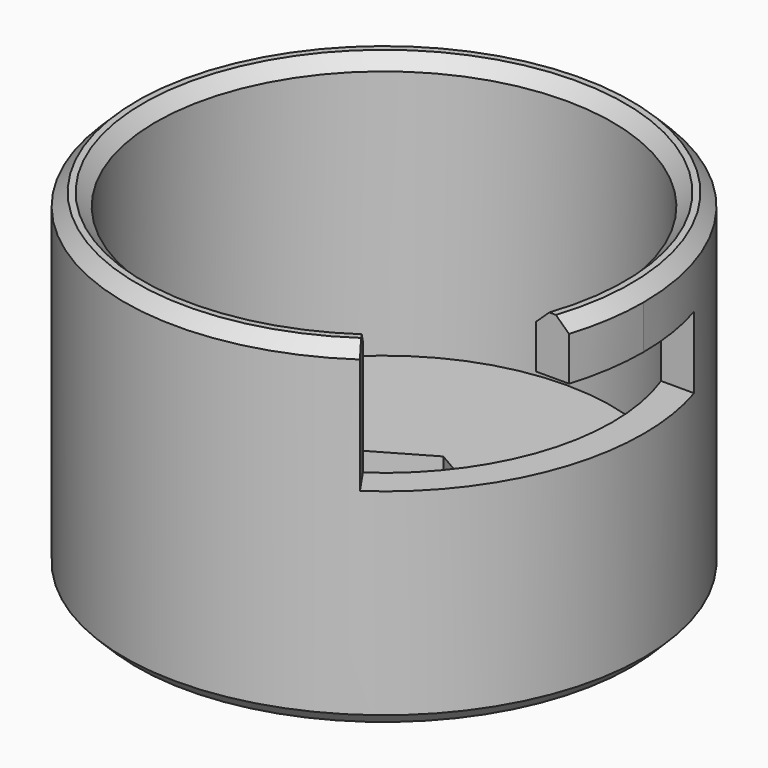
from build123d import *

# Parameters (mm, degrees)
F0_R      = 20.75
F1_DEPTH  = 6
F3_DEPTH  = 4.75
F4_R      = 3
F5_DEPTH  = 1.25
F6_R      = 20.75
F6_R_2    = 18.25
F7_DEPTH  = 21
F9_W      = 12.5
F9_H      = 5.75
F10_DEPTH = 4.6035718005
F12_DEPTH = 10.25
F13_SIZE  = 1


with BuildPart() as f1:
    # F0 (on Top) → F1 (new body)
    with BuildSketch(Plane.XY):
        Circle(F0_R)
    extrude(amount=F1_DEPTH)

    # F2 (on face) → F3 (cut)
    with BuildSketch(Plane.XY.offset(6)):
        Polygon((5.125, -2.9589201296), (5.125, 2.9589201296), (0, 5.9178402592), (-5.125, 2.9589201296), (-5.125, -2.9589201296), (0, -5.9178402592), align=None)
    extrude(amount=-F3_DEPTH, mode=Mode.SUBTRACT)

    # F4 (on face) → F5 (cut, through all)
    with BuildSketch(Plane.XY.offset(1.25)):
        Circle(F4_R)
    extrude(amount=-F5_DEPTH, mode=Mode.SUBTRACT)

    # F6 (on face) → F7 (join)
    with BuildSketch(Plane.XY.offset(6)):
        Circle(F6_R)
        Circle(F6_R_2, mode=Mode.SUBTRACT)
    extrude(amount=F7_DEPTH)

    # F9 (on offset) → F10 (cut, up to face)
    with BuildSketch(Plane.YZ.offset(20.75)):
        with Locations((0, 19.625)):
            Rectangle(F9_W, F9_H)
    extrude(amount=-F10_DEPTH, mode=Mode.SUBTRACT)

    # F11 (on face) → F12 (cut, through all)
    with BuildSketch(Plane.XY.offset(27)):
        with BuildLine():
            Line((10.3375358146, -15.039875441), (11.7536366111, -17.1001323508))
            ThreePointArc((11.7536366111, -17.1001323508), (16.6770552799, -12.3465917237), (19.7863589374, -6.25))
            Line((19.7863589374, -6.25), (17.1464281995, -6.25))
            ThreePointArc((17.1464281995, -6.25), (14.4276660292, -11.1760884459), (10.3375358146, -15.039875441))
        make_face()
    extrude(amount=-F12_DEPTH, mode=Mode.SUBTRACT)

    # F13
    f13_edges = [f1.edges().sort_by_distance(p)[0] for p in [
        (-18.363693, 9.661122, 27),
        (-16.1512, 8.497131, 27),
        (-20.75, 0, 0),
    ]]
    chamfer(f13_edges, length=F13_SIZE)


solid = f1.part
